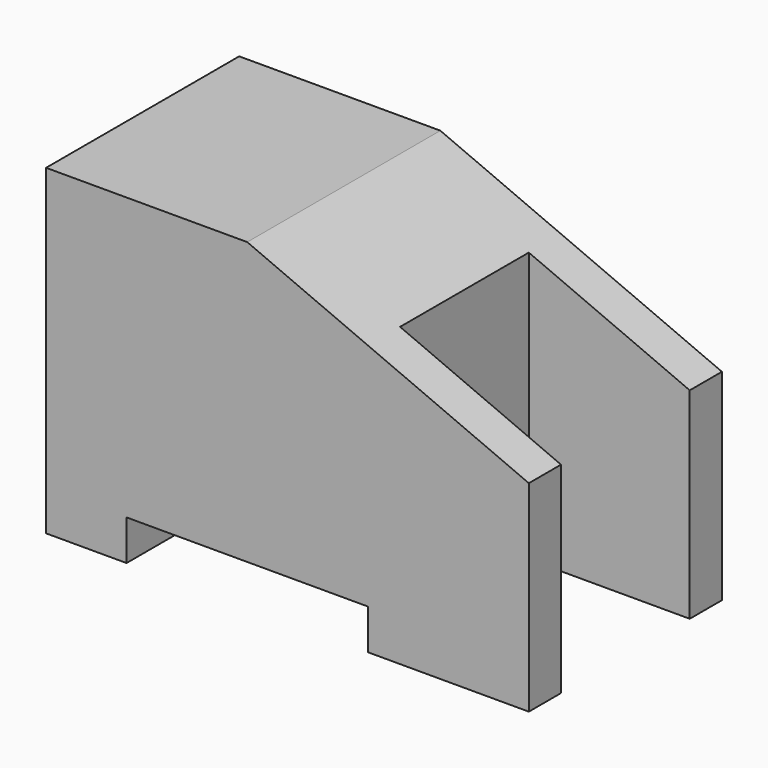
from build123d import *

# Parameters (mm, degrees)
F1_DEPTH = 15
F2_DEPTH = 15
F3_W     = 10
F3_H     = 10
F4_DEPTH = 20.001
F5_DEPTH = 15.001


with BuildPart() as f1:
    # F0 (on Front) → F1 (new body)
    with BuildSketch(Plane.XZ):
        Polygon((0, 20), (0, 0), (5, 0), (5, 2.5), (20, 2.5), (20, 0), (30, 0), (30, 12.5), (12.5, 20), align=None)
    extrude(amount=-F1_DEPTH)

    # F0 (on Front) → F2 (join)
    with BuildSketch(Plane.XZ):
        Polygon((30, 20), (12.5, 20), (30, 12.5), align=None)
    extrude(amount=-F2_DEPTH)

    # F3 (on face) → F4 (cut, through all)
    with BuildSketch(Plane.XY.offset(20)):
        with Locations((25, 7.5)):
            Rectangle(F3_W, F3_H)
    extrude(amount=-F4_DEPTH, mode=Mode.SUBTRACT)

    # F0 (on Front) → F5 (cut, through all)
    with BuildSketch(Plane.XZ):
        Polygon((30, 20), (12.5, 20), (30, 12.5), align=None)
    extrude(amount=-F5_DEPTH, mode=Mode.SUBTRACT)


solid = f1.part
